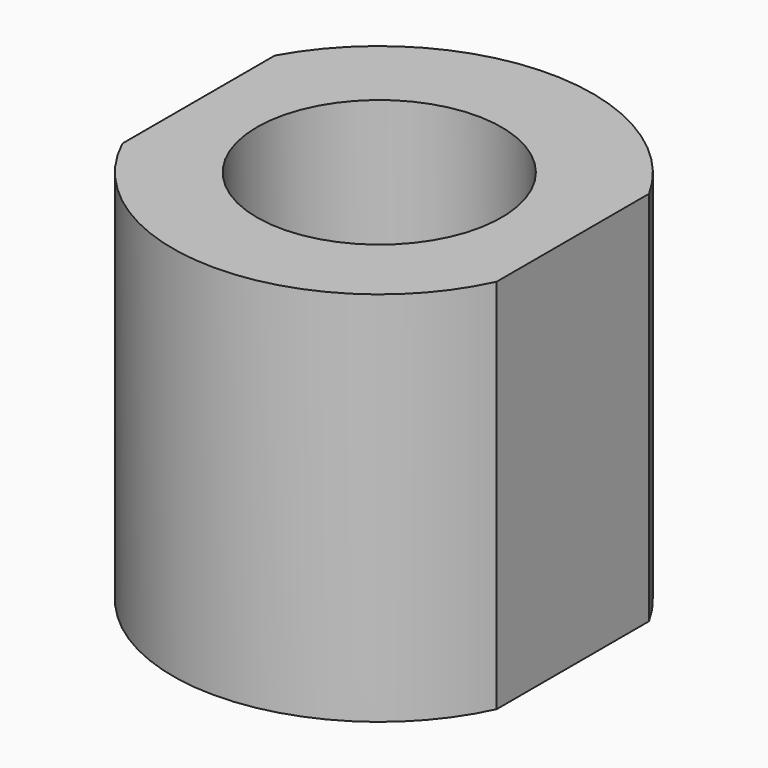
from build123d import *

# Parameters (mm, degrees)
F1_DEPTH = 50.8
F3_D     = 33.02


with BuildPart() as f1:
    # F0 (on Top) → F1 (new body)
    with BuildSketch(Plane.XY):
        with BuildLine():
            Line((29.738761, -25.723102), (29.738761, 0))
            ThreePointArc((29.738761, 0), (4.48478, 14.848018), (-20.769201, 0))
            Line((-20.769201, 0), (-20.769201, -25.723102))
            ThreePointArc((-20.769201, -25.723102), (4.48478, -41.813528), (29.738761, -25.723102))
        make_face()
    extrude(amount=F1_DEPTH)

    # F3 (through all)
    with Locations(Plane.XY.offset(50.8)):
        with Locations((4.48478, -13.950209)):
            Hole(F3_D / 2)


solid = f1.part
